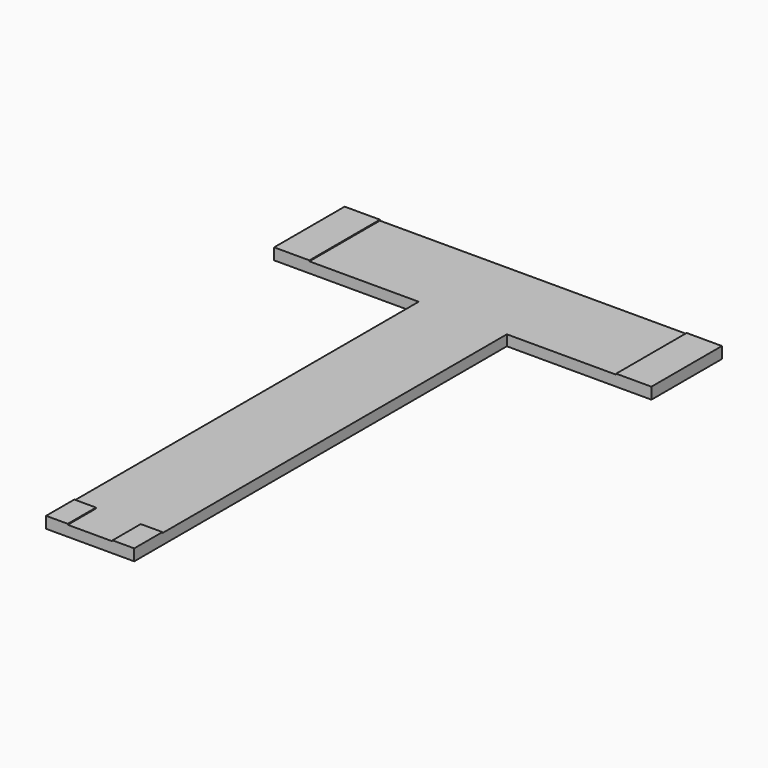
from build123d import *

# Parameters (mm, degrees)
F0_W     = 6
F0_H     = 25
F0_W_2   = 5
F0_W_3   = 12.7
F0_H_2   = 10
F0_H_3   = 5
F0_W_4   = 6.15
F1_DEPTH = 3
F0_W_5   = 10
F2_DEPTH = 3.25


with BuildPart() as f1:
    # F0 (on Top) → F1 (new body)
    with BuildSketch(Plane.XY):
        with Locations((-39.9078816451, 39.8015151515)):
            Rectangle(F0_W, F0_H)
        Polygon((-11.9078816451, 27.3015151515), (0.5921183549, 27.3015151515), (0.5921183549, 52.3015151515), (-36.9078816451, 52.3015151515), (-36.9078816451, 27.3015151515), align=None)
        Polygon((0.5921183549, 27.3015151515), (13.0921183549, 27.3015151515), (39.0921183549, 27.3015151515), (39.0921183549, 52.3015151515), (0.5921183549, 52.3015151515), align=None)
        with Locations((41.5921183549, 39.8015151515)):
            Rectangle(F0_W_2, F0_H)
        with Locations((0.5921183549, -99.7984848485)):
            Rectangle(F0_W_3, F0_H_2)
        with Locations((0.5921183549, -92.2984848485)):
            Rectangle(F0_W_3, F0_H_3)
        with Locations((10.0171183549, -92.2984848485)):
            Rectangle(F0_W_4, F0_H_3)
        Polygon((6.9421183549, -89.7984848485), (13.0921183549, -89.7984848485), (13.0921183549, 27.3015151515), (0.5921183549, 27.3015151515), (-11.9078816451, 27.3015151515), (-11.9078816451, -89.7984848485), (-5.7578816451, -89.7984848485), align=None)
        with Locations((-8.8328816451, -92.2984848485)):
            Rectangle(F0_W_4, F0_H_3)
    extrude(amount=F1_DEPTH)

    # F0 (on Top) → F2 (join)
    with BuildSketch(Plane.XY):
        with Locations((10.0171183549, -99.7984848485)):
            Rectangle(F0_W_4, F0_H_2)
        with Locations((-8.8328816451, -99.7984848485)):
            Rectangle(F0_W_4, F0_H_2)
        with Locations((-47.9078816451, 39.8015151515)):
            Rectangle(F0_W_5, F0_H)
        with Locations((49.0921183549, 39.8015151515)):
            Rectangle(F0_W_5, F0_H)
    extrude(amount=F2_DEPTH)


solid = f1.part
